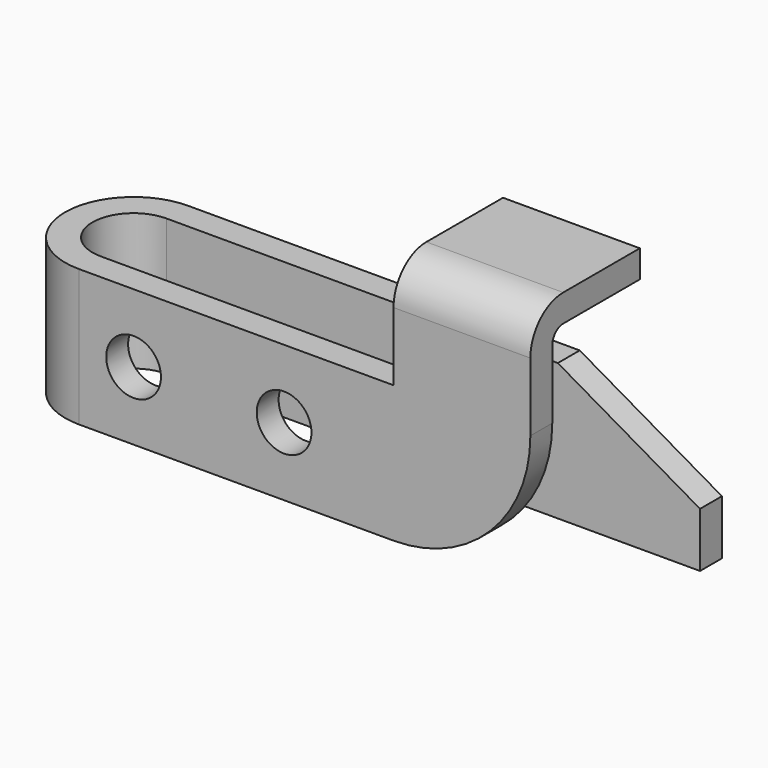
from build123d import *

# Parameters (mm, degrees)
F1_DEPTH  = 31.75
F3_DEPTH  = 25.4
F5_DEPTH  = 31.75
F7_R      = 31.75
F8_R      = 9.525
F9_R      = 3.175
F10_R     = 6.35
F11_DEPTH = 6.35


with BuildPart() as f1:
    # F0 (on Top) → F1 (new body)
    with BuildSketch(Plane.XY):
        with BuildLine():
            Line((123.825, 15.875), (0, 15.875))
            ThreePointArc((0, 15.875), (-15.875, 0), (0, -15.875))
            Line((0, -15.875), (104.775, -15.875))
            Line((104.775, -15.875), (104.775, -9.525))
            Line((104.775, -9.525), (0, -9.525))
            ThreePointArc((0, -9.525), (-9.525, 0), (0, 9.525))
            Line((0, 9.525), (123.825, 9.525))
            Line((123.825, 9.525), (123.825, 15.875))
        make_face()
    extrude(amount=F1_DEPTH)

    # F2 (on face) → F3 (cut)
    with BuildSketch(Plane.XZ.offset(-9.525)):
        Polygon((123.825, 31.75), (90.829432, 31.75), (123.825, 12.7), align=None)
    extrude(amount=-F3_DEPTH, mode=Mode.SUBTRACT)


with BuildPart() as f5:
    # F4 (on face) → F5 (new body)
    with BuildSketch(Plane.YZ.offset(104.775)):
        Polygon((-15.875, 57.15), (-15.875, 50.8), (-15.875, 31.75), (-9.525, 31.75), (-9.525, 50.8), (15.875, 50.8), (15.875, 57.15), align=None)
    extrude(amount=-F5_DEPTH)


with BuildPart() as f1_1:
    add(f1.part)

    # F6: union F5
    add(f5.part)

    # F7
    f7_edges = [f1_1.edges().sort_by_distance(p)[0] for p in [
        (104.775, -12.7, 0),
    ]]
    fillet(f7_edges, radius=F7_R)

    # F8
    f8_edges = [f1_1.edges().sort_by_distance(p)[0] for p in [
        (88.9, -15.875, 57.15),
    ]]
    fillet(f8_edges, radius=F8_R)

    # F9
    f9_edges = [f1_1.edges().sort_by_distance(p)[0] for p in [
        (88.9, -9.525, 50.8),
    ]]
    fillet(f9_edges, radius=F9_R)

    # F10 (on face) → F11 (cut)
    with BuildSketch(Plane.XZ.offset(15.875)):
        with Locations((12.7, 15.875)):
            Circle(F10_R)
        with Locations((47.625, 15.875)):
            Circle(F10_R)
    extrude(amount=-F11_DEPTH, mode=Mode.SUBTRACT)


solid = f1_1.part
